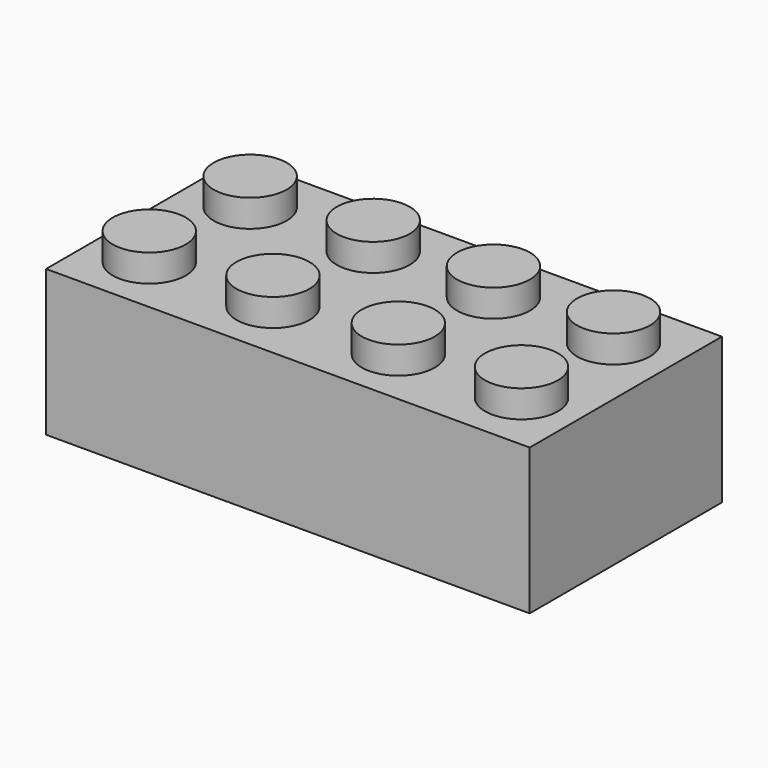
from build123d import *

# Parameters (mm, degrees)
F0_W     = 807.72
F0_H     = 401.32
F1_DEPTH = 243.84
F2_R     = 60.96
F3_DEPTH = 45.72
F4_W     = 746.76
F4_H     = 340.36
F4_R     = 82.55
F4_R_2   = 60.96
F5_DEPTH = 45.72


with BuildPart() as f1:
    # F0 (on Top) → F1 (new body)
    with BuildSketch(Plane.XY):
        with Locations((12.259597, -118.231484)):
            Rectangle(F0_W, F0_H)
    extrude(amount=F1_DEPTH)

    # F2 (on face) → F3 (join)
    with BuildSketch(Plane.XY.offset(243.84)):
        with Locations((113.838267, -16.641684)):
            Circle(F2_R)
        with Locations((317.011298, -19.952157)):
            Circle(F2_R)
        with Locations((-298.568574, -219.742048)):
            Circle(F2_R)
        with Locations((-94.249569, -216.897499)):
            Circle(F2_R)
        with Locations((117.443508, -219.809698)):
            Circle(F2_R)
        with Locations((320.064545, -215.882391)):
            Circle(F2_R)
        with Locations((-89.340403, -13.697499)):
            Circle(F2_R)
        with Locations((-292.540403, -16.631484)):
            Circle(F2_R)
    extrude(amount=F3_DEPTH)

    # F4 (on Top) → F5 (join)
    with BuildSketch(Plane.XY):
        with Locations((12.259597, -118.231484)):
            Rectangle(F4_W, F4_H)
        with Locations((-208.453938, -102.044091)):
            Circle(F4_R, mode=Mode.SUBTRACT)
        with Locations((27.986567, -95.26559)):
            Circle(F4_R, mode=Mode.SUBTRACT)
        with Locations((240.385324, -99.75633)):
            Circle(F4_R, mode=Mode.SUBTRACT)
        with Locations((-208.453938, -102.044091)):
            Circle(F4_R_2)
        with Locations((27.986567, -95.26559)):
            Circle(F4_R_2)
        with Locations((240.385324, -99.75633)):
            Circle(F4_R_2)
    extrude(amount=F5_DEPTH)


solid = f1.part
